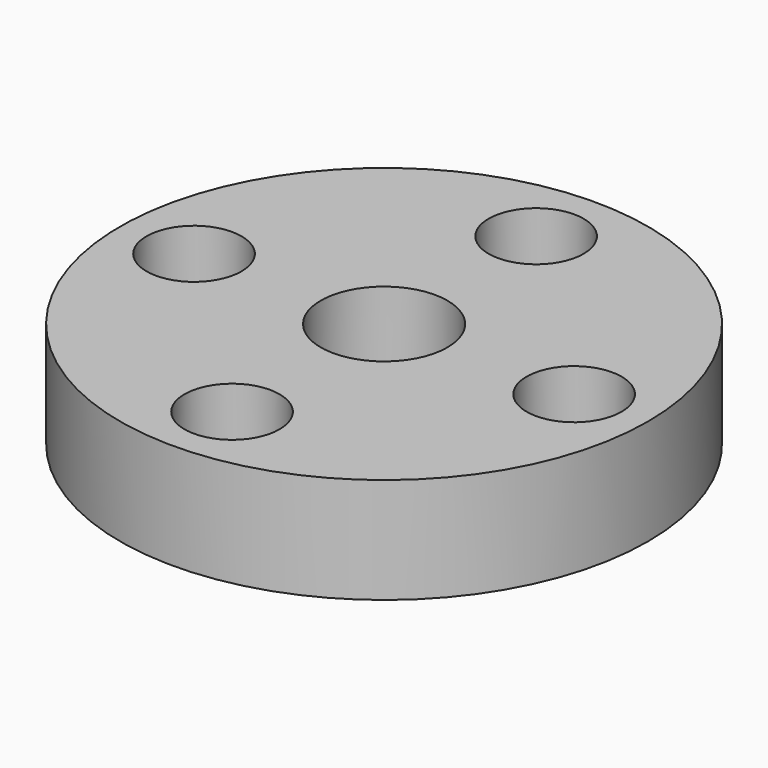
from build123d import *

# Parameters (mm, degrees)
F0_R     = 12.5
F0_R_2   = 3
F1_DEPTH = 5
F2_R     = 2.25
F3_DEPTH = 10
F4_R     = 2.25
F5_DEPTH = 10


with BuildPart() as f1:
    # F0 (on Top) → F1 (new body)
    with BuildSketch(Plane.XY):
        Circle(F0_R)
        Circle(F0_R_2, mode=Mode.SUBTRACT)
    extrude(amount=F1_DEPTH)

    # F2 (on Top) → F3 (cut)
    with BuildSketch(Plane.XY):
        with Locations((0, 9)):
            Circle(F2_R)
        with Locations((0, -9)):
            Circle(F2_R)
    extrude(amount=F3_DEPTH, mode=Mode.SUBTRACT)

    # F4 (on Top) → F5 (cut)
    with BuildSketch(Plane.XY):
        with Locations((-9, 0)):
            Circle(F4_R)
        with Locations((9, 0)):
            Circle(F4_R)
    extrude(amount=F5_DEPTH, mode=Mode.SUBTRACT)


solid = f1.part
